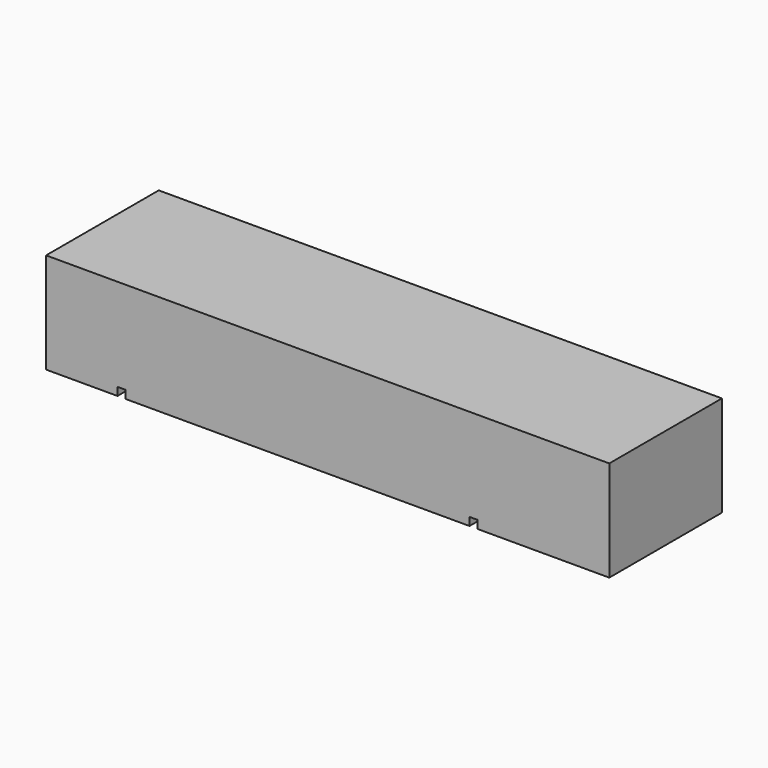
from build123d import *

# Parameters (mm, degrees)
F0_W          = 177.8
F0_H          = 31.75
F4_DEPTH      = 22.225
F1_W          = 2.54
F1_H          = 2.54
F2_DEPTH      = 22.225
F2_DEPTH_BACK = 22.225


with BuildPart() as f4:
    # F0 (on Front) → F4 (new body, symmetric)
    with BuildSketch(Plane.XZ):
        Rectangle(F0_W, F0_H)
    extrude(amount=F4_DEPTH, both=True)

    # F1 (on Front) → F2 (cut, two sides)
    with BuildSketch(Plane.XZ) as f2_sk:
        with Locations((-65.0875, -14.605)):
            Rectangle(F1_W, F1_H)
        with Locations((46.0375, -14.605)):
            Rectangle(F1_W, F1_H)
    extrude(amount=F2_DEPTH, mode=Mode.SUBTRACT)
    extrude(f2_sk.sketch, amount=-F2_DEPTH_BACK, mode=Mode.SUBTRACT)


solid = f4.part
